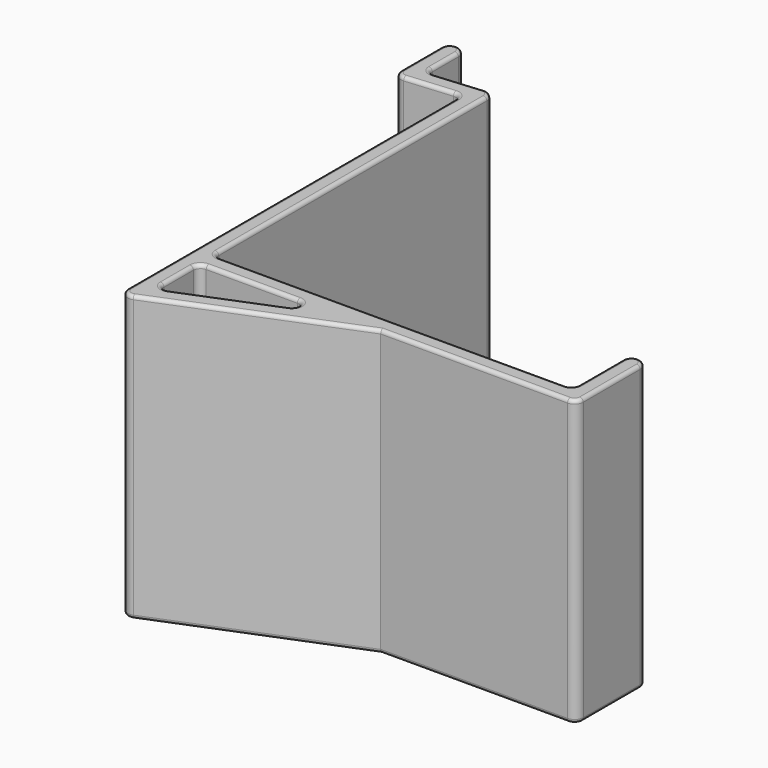
from build123d import *

# Parameters (mm, degrees)
F0_W     = 1.225
F0_H     = 1.225
F1_DEPTH = 40
F2_R     = 1
F3_R     = 0.5


with BuildPart() as f1:
    # F0 (on Top) → F1 (new body)
    with BuildSketch(Plane.XY):
        Polygon((-17.5355074389, 28.5349045721), (-18.7605074389, 28.4277309593), (-18.7605074389, 27.1980516583), (-17.5355074389, 27.3052252711), align=None)
        with BuildLine():
            Line((-18.7605074389, 27.1980516583), (-18.7605074389, 28.4277309593))
            Line((-18.7605074389, 28.4277309593), (-18.8672732237, 28.4183901634))
            ThreePointArc((-18.8672732237, 28.4183901634), (-19.6636721765, 28.0256496626), (-19.9855074389, 27.1980516583))
            ThreePointArc((-19.9855074389, 27.1980516583), (-19.5881054432, 26.2948869207), (-18.653741654, 25.9777131531))
            ThreePointArc((-18.653741654, 25.9777131531), (-17.8573427013, 26.3704536539), (-17.5355074389, 27.1980516583))
            Line((-17.5355074389, 27.1980516583), (-17.5355074389, 27.3052252711))
            Line((-17.5355074389, 27.3052252711), (-18.7605074389, 27.1980516583))
        make_face()
        with BuildLine():
            Line((-18.8672732237, 28.4183901634), (-18.7605074389, 28.4277309593))
            Line((-18.7605074389, 28.4277309593), (-17.5355074389, 28.5349045721))
            Line((-17.5355074389, 28.5349045721), (-17.5355074389, 34.1980516583))
            ThreePointArc((-17.5355074389, 34.1980516583), (-18.7605074389, 35.4230516583), (-19.9855074389, 34.1980516583))
            Line((-19.9855074389, 34.1980516583), (-19.9855074389, 27.1980516583))
            ThreePointArc((-19.9855074389, 27.1980516583), (-19.6636721765, 28.0256496626), (-18.8672732237, 28.4183901634))
        make_face()
        with BuildLine():
            Line((-9.9015209409, 29.2027918482), (-17.5355074389, 28.5349045721))
            Line((-17.5355074389, 28.5349045721), (-17.5355074389, 27.3052252711))
            Line((-17.5355074389, 27.3052252711), (-11.019755156, 27.8752797302))
            Line((-11.019755156, 27.8752797302), (-11.019755156, 27.982453343))
            ThreePointArc((-11.019755156, 27.982453343), (-10.6979198936, 28.8100513473), (-9.9015209409, 29.2027918482))
        make_face()
        with BuildLine():
            Line((-11.019755156, 27.8752797302), (-17.5355074389, 27.3052252711))
            Line((-17.5355074389, 27.3052252711), (-17.5355074389, 27.1980516583))
            ThreePointArc((-17.5355074389, 27.1980516583), (-17.8573427013, 26.3704536539), (-18.653741654, 25.9777131531))
            Line((-18.653741654, 25.9777131531), (-11.019755156, 26.6456004292))
            Line((-11.019755156, 26.6456004292), (-11.019755156, 27.8752797302))
        make_face()
        with BuildLine():
            ThreePointArc((-8.569755156, 27.982453343), (-8.9671571517, 28.8856180806), (-9.9015209409, 29.2027918482))
            ThreePointArc((-9.9015209409, 29.2027918482), (-10.6979198936, 28.8100513473), (-11.019755156, 27.982453343))
            Line((-11.019755156, 27.982453343), (-11.019755156, 27.8752797302))
            Line((-11.019755156, 27.8752797302), (-9.794755156, 27.982453343))
            Line((-9.794755156, 27.982453343), (-9.794755156, 26.752774042))
            Line((-9.794755156, 26.752774042), (-9.6879893712, 26.7621148378))
            ThreePointArc((-9.6879893712, 26.7621148378), (-8.8915904184, 27.1548553387), (-8.569755156, 27.982453343))
        make_face()
        Polygon((-9.794755156, 27.982453343), (-11.019755156, 27.8752797302), (-11.019755156, 26.6456004292), (-9.794755156, 26.752774042), align=None)
        with BuildLine():
            Line((-8.569755156, -20.1026818395), (-8.569755156, 27.982453343))
            ThreePointArc((-8.569755156, 27.982453343), (-8.8915904184, 27.1548553387), (-9.6879893712, 26.7621148378))
            Line((-9.6879893712, 26.7621148378), (-9.794755156, 26.752774042))
            Line((-9.794755156, 26.752774042), (-9.794755156, -20.1026818395))
            Line((-9.794755156, -20.1026818395), (-8.569755156, -20.1026818395))
        make_face()
        with BuildLine():
            Line((-9.794755156, 26.752774042), (-11.019755156, 26.6456004292))
            Line((-11.019755156, 26.6456004292), (-11.019755156, -21.3276818395))
            ThreePointArc((-11.019755156, -21.3276818395), (-10.660960963, -20.4614760325), (-9.794755156, -20.1026818395))
            Line((-9.794755156, -20.1026818395), (-9.794755156, 26.752774042))
        make_face()
        with BuildLine():
            Line((16.705244844, -20.1026818395), (-8.569755156, -20.1026818395))
            Line((-8.569755156, -20.1026818395), (-8.569755156, -21.3276818395))
            Line((-8.569755156, -21.3276818395), (13.4307211101, -21.3276818395))
            Line((13.4307211101, -21.3276818395), (16.2469720929, -20.1916311867))
            ThreePointArc((16.2469720929, -20.1916311867), (16.4718321725, -20.1251247619), (16.705244844, -20.1026818395))
        make_face()
        with Locations((-9.182255156, -20.7151818395)):
            Rectangle(F0_W, F0_H)
        with BuildLine():
            ThreePointArc((-9.794755156, -22.5526818395), (-10.660960963, -22.1938876464), (-11.019755156, -21.3276818395))
            Line((-11.019755156, -21.3276818395), (-11.019755156, -32.017546657))
            ThreePointArc((-11.019755156, -32.017546657), (-10.8101391031, -31.3322580755), (-10.2530279071, -30.8814960043))
            Line((-10.2530279071, -30.8814960043), (-9.794755156, -30.6966328436))
            Line((-9.794755156, -30.6966328436), (-9.794755156, -22.5526818395))
        make_face()
        with BuildLine():
            ThreePointArc((-9.794755156, -20.1026818395), (-10.660960963, -20.4614760325), (-11.019755156, -21.3276818395))
            ThreePointArc((-11.019755156, -21.3276818395), (-10.660960963, -22.1938876464), (-9.794755156, -22.5526818395))
            Line((-9.794755156, -22.5526818395), (-9.794755156, -21.3276818395))
            Line((-9.794755156, -21.3276818395), (-9.794755156, -20.1026818395))
        make_face()
        with BuildLine():
            ThreePointArc((17.930244844, -21.3276818395), (17.5714506509, -20.4614760325), (16.705244844, -20.1026818395))
            ThreePointArc((16.705244844, -20.1026818395), (16.4718321725, -20.1251247619), (16.2469720929, -20.1916311867))
            Line((16.2469720929, -20.1916311867), (13.4307211101, -21.3276818395))
            Line((13.4307211101, -21.3276818395), (16.705244844, -21.3276818395))
            Line((16.705244844, -21.3276818395), (17.930244844, -21.3276818395))
        make_face()
        with BuildLine():
            Line((41.980244844, -20.1026818395), (16.705244844, -20.1026818395))
            ThreePointArc((16.705244844, -20.1026818395), (17.5714506509, -20.4614760325), (17.930244844, -21.3276818395))
            Line((17.930244844, -21.3276818395), (41.980244844, -21.3276818395))
            Line((41.980244844, -21.3276818395), (41.980244844, -20.1026818395))
        make_face()
        with BuildLine():
            ThreePointArc((-10.2530279071, -30.8814960043), (-10.8101391031, -31.3322580755), (-11.019755156, -32.017546657))
            ThreePointArc((-11.019755156, -32.017546657), (-10.4800437376, -33.0329306041), (-9.3364824049, -33.1535973098))
            ThreePointArc((-9.3364824049, -33.1535973098), (-8.7793712089, -32.7028352385), (-8.569755156, -32.017546657))
            Line((-8.569755156, -32.017546657), (-8.569755156, -31.5233925286))
            Line((-8.569755156, -31.5233925286), (-9.794755156, -32.017546657))
            Line((-9.794755156, -32.017546657), (-9.794755156, -30.6966328436))
            Line((-9.794755156, -30.6966328436), (-10.2530279071, -30.8814960043))
        make_face()
        with BuildLine():
            Line((41.980244844, -11.3276818395), (41.980244844, -20.1026818395))
            Line((41.980244844, -20.1026818395), (43.205244844, -20.1026818395))
            ThreePointArc((43.205244844, -20.1026818395), (44.0714506509, -20.4614760325), (44.430244844, -21.3276818395))
            Line((44.430244844, -21.3276818395), (44.430244844, -11.3276818395))
            ThreePointArc((44.430244844, -11.3276818395), (43.205244844, -10.1026818395), (41.980244844, -11.3276818395))
        make_face()
        with Locations((42.592744844, -20.7151818395)):
            Rectangle(F0_W, F0_H)
        with BuildLine():
            ThreePointArc((17.1635175951, -22.4637324922), (17.7206287911, -22.012970421), (17.930244844, -21.3276818395))
            Line((17.930244844, -21.3276818395), (16.705244844, -21.3276818395))
            Line((16.705244844, -21.3276818395), (13.6684898846, -22.5526818395))
            Line((13.6684898846, -22.5526818395), (16.9430136184, -22.5526818395))
            Line((16.9430136184, -22.5526818395), (17.1635175951, -22.4637324922))
        make_face()
        with BuildLine():
            Line((41.980244844, -21.3276818395), (17.930244844, -21.3276818395))
            ThreePointArc((17.930244844, -21.3276818395), (17.7206287911, -22.012970421), (17.1635175951, -22.4637324922))
            Line((17.1635175951, -22.4637324922), (16.9430136184, -22.5526818395))
            Line((16.9430136184, -22.5526818395), (43.205244844, -22.5526818395))
            ThreePointArc((43.205244844, -22.5526818395), (42.339039037, -22.1938876464), (41.980244844, -21.3276818395))
        make_face()
        with BuildLine():
            ThreePointArc((-8.569755156, -32.017546657), (-8.7793712089, -32.7028352385), (-9.3364824049, -33.1535973098))
            Line((-9.3364824049, -33.1535973098), (16.9430136184, -22.5526818395))
            Line((16.9430136184, -22.5526818395), (13.6684898846, -22.5526818395))
            Line((13.6684898846, -22.5526818395), (-8.569755156, -31.5233925286))
            Line((-8.569755156, -31.5233925286), (-8.569755156, -32.017546657))
        make_face()
        with BuildLine():
            ThreePointArc((44.430244844, -21.3276818395), (44.0714506509, -20.4614760325), (43.205244844, -20.1026818395))
            Line((43.205244844, -20.1026818395), (43.205244844, -21.3276818395))
            Line((43.205244844, -21.3276818395), (41.980244844, -21.3276818395))
            ThreePointArc((41.980244844, -21.3276818395), (42.339039037, -22.1938876464), (43.205244844, -22.5526818395))
            ThreePointArc((43.205244844, -22.5526818395), (44.0714506509, -22.1938876464), (44.430244844, -21.3276818395))
        make_face()
        Polygon((13.4307211101, -21.3276818395), (-8.569755156, -21.3276818395), (-8.569755156, -22.5526818395), (10.3939661507, -22.5526818395), align=None)
        Polygon((16.705244844, -21.3276818395), (13.4307211101, -21.3276818395), (10.3939661507, -22.5526818395), (13.6684898846, -22.5526818395), align=None)
        Polygon((13.6684898846, -22.5526818395), (10.3939661507, -22.5526818395), (-8.569755156, -30.2024787152), (-8.569755156, -31.5233925286), align=None)
        Polygon((-8.569755156, -22.5526818395), (-9.794755156, -22.5526818395), (-9.794755156, -30.6966328436), (-8.569755156, -30.2024787152), align=None)
        with Locations((-9.182255156, -21.9401818395)):
            Rectangle(F0_W, F0_H)
        Polygon((-8.569755156, -30.2024787152), (-9.794755156, -30.6966328436), (-9.794755156, -32.017546657), (-8.569755156, -31.5233925286), align=None)
    extrude(amount=F1_DEPTH)

    # F2
    f2_edges = [f1.edges().sort_by_distance(p)[0] for p in [
        (-8.569755, -22.552682, 20),
        (10.393966, -22.552682, 20),
        (-8.569755, -30.202479, 20),
        (-8.569755, -20.102682, 20),
        (41.980245, -20.102682, 20),
        (-17.535507, 28.534905, 20),
        (-11.019755, 26.6456, 20),
    ]]
    fillet(f2_edges, radius=F2_R)

    # F3
    f3_edges = [f1.edges().sort_by_distance(p)[0] for p in [
        (-15.380326, 26.2641, 40),
        (-11.344165, 26.291569, 40),
        (-19.588105, 26.294887, 40),
        (-11.019755, -3.231627, 40),
        (-19.985507, 30.698052, 40),
        (-10.480044, -33.032931, 40),
        (-18.760507, 35.423052, 40),
        (3.803266, -27.85314, 40),
        (-17.535507, 31.912132, 40),
        (30.074129, -22.552682, 40),
        (-17.211098, 28.888936, 40),
        (44.071451, -22.193888, 40),
        (-13.174936, 28.916405, 40),
        (44.430245, -16.327682, 40),
        (-8.967157, 28.885618, 40),
        (43.205245, -10.102682, 40),
        (-8.569755, 4.439886, 40),
        (41.980245, -15.215182, 40),
        (-8.276862, -19.809789, 40),
        (41.687352, -19.809789, 40),
        (16.705245, -20.102682, 40),
        (-0.789826, -27.064125, 40),
        (6.223581, -23.362141, 40),
        (-8.129174, -29.549675, 40),
        (-1.163927, -22.552682, 40),
        (-8.569755, -26.136736, 40),
        (-8.276862, -22.845575, 40),
        (-15.380326, 26.2641, 0),
        (-11.344165, 26.291569, 0),
        (-19.588105, 26.294887, 0),
        (-11.019755, -3.231627, 0),
        (-19.985507, 30.698052, 0),
        (-10.480044, -33.032931, 0),
        (-18.760507, 35.423052, 0),
        (3.803266, -27.85314, 0),
        (-17.535507, 31.912132, 0),
        (30.074129, -22.552682, 0),
        (-17.211098, 28.888936, 0),
        (44.071451, -22.193888, 0),
        (-13.174936, 28.916405, 0),
        (44.430245, -16.327682, 0),
        (-8.967157, 28.885618, 0),
        (43.205245, -10.102682, 0),
        (-8.569755, 4.439886, 0),
        (41.980245, -15.215182, 0),
        (-8.276862, -19.809789, 0),
        (41.687352, -19.809789, 0),
        (16.705245, -20.102682, 0),
        (-0.789826, -27.064125, 0),
        (6.223581, -23.362141, 0),
        (-8.129174, -29.549675, 0),
        (-1.163927, -22.552682, 0),
        (-8.569755, -26.136736, 0),
        (-8.276862, -22.845575, 0),
    ]]
    fillet(f3_edges, radius=F3_R)


solid = f1.part
